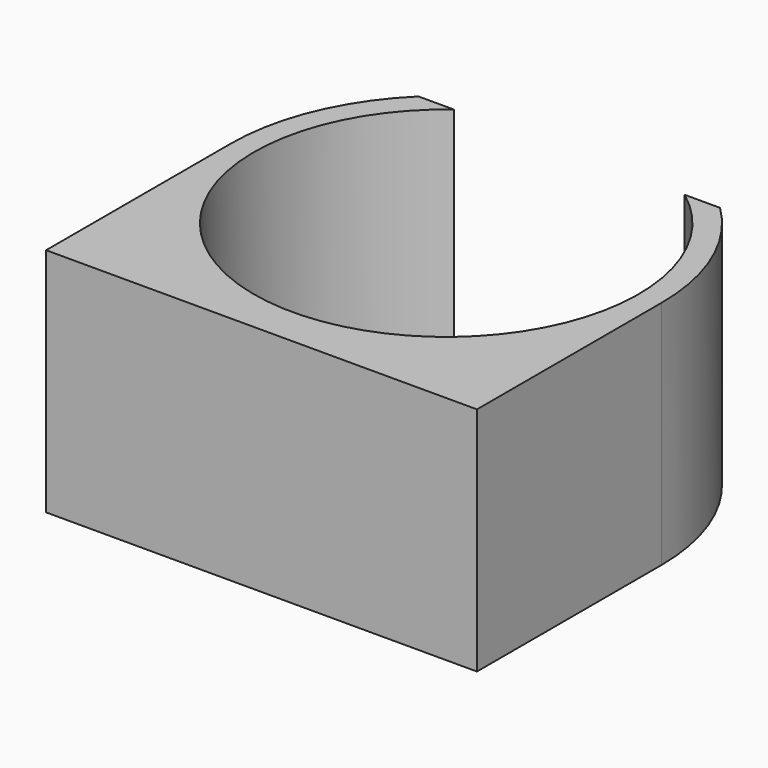
from build123d import *

# Parameters (mm, degrees)
F1_DEPTH = 15


with BuildPart() as f1:
    # F0 (on Top) → F1 (new body)
    with BuildSketch(Plane.XY):
        with BuildLine():
            ThreePointArc((21.5, 25), (14, 2.5), (6.5, 25))
            Line((6.5, 25), (4.202041, 25))
            ThreePointArc((4.202041, 25), (1.093191, 20.423494), (0, 15))
            Line((0, 15), (0, 0))
            Line((0, 0), (28, 0))
            Line((28, 0), (28, 15))
            ThreePointArc((28, 15), (26.906809, 20.423494), (23.797959, 25))
            Line((23.797959, 25), (21.5, 25))
        make_face()
    extrude(amount=F1_DEPTH)


solid = f1.part
